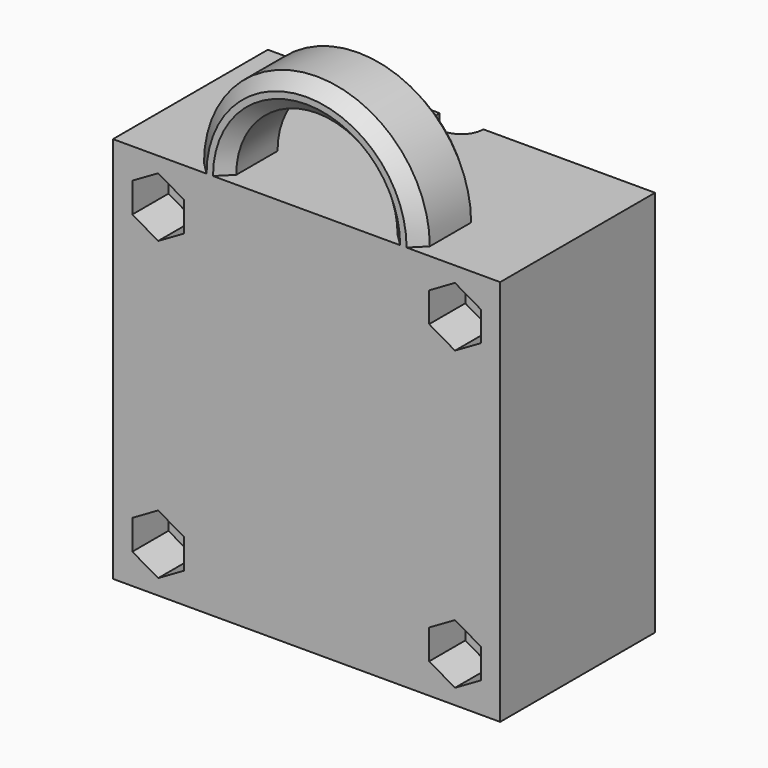
from build123d import *

# Parameters (mm, degrees)
F0_W      = 60
F0_H      = 30
F1_DEPTH  = 60
F2_R      = 3.4
F3_DEPTH  = 60.001
F4_R      = 1.8
F5_DEPTH  = 30.001
F7_DEPTH  = 7
F9_DEPTH  = 7
F11_DEPTH = 7
F13_DEPTH = 7
F14_R     = 17.5
F15_DEPTH = 12
F17_DEPTH = 30.001
F18_SIZE  = 2


with BuildPart() as f1:
    # F0 (on Top) → F1 (new body)
    with BuildSketch(Plane.XY):
        Rectangle(F0_W, F0_H)
    extrude(amount=F1_DEPTH)

    # F2 (on face) → F3 (cut, through all)
    with BuildSketch(Plane.XY.offset(60)):
        with Locations((0, 15)):
            Circle(F2_R)
    extrude(amount=-F3_DEPTH, mode=Mode.SUBTRACT)

    # F4 (on face) → F5 (cut, through all)
    with BuildSketch(Plane.XZ.offset(15)):
        with Locations((-23, 53)):
            Circle(F4_R)
        with Locations((23, 53)):
            Circle(F4_R)
        with Locations((23, 7)):
            Circle(F4_R)
        with Locations((-23, 7)):
            Circle(F4_R)
    extrude(amount=-F5_DEPTH, mode=Mode.SUBTRACT)

    # F6 (on face) → F7 (cut)
    with BuildSketch(Plane.XZ.offset(15)):
        Polygon((-23, 48.3811978465), (-19, 50.6905989232), (-19, 55.3094010768), (-23, 57.6188021535), (-27, 55.3094010768), (-27, 50.6905989232), align=None)
    extrude(amount=-F7_DEPTH, mode=Mode.SUBTRACT)

    # F8 (on face) → F9 (cut)
    with BuildSketch(Plane.XZ.offset(15)):
        Polygon((19, 50.6905989232), (23, 48.3811978465), (27, 50.6905989232), (27, 55.3094010768), (23, 57.6188021535), (19, 55.3094010768), align=None)
    extrude(amount=-F9_DEPTH, mode=Mode.SUBTRACT)

    # F10 (on face) → F11 (cut)
    with BuildSketch(Plane.XZ.offset(15)):
        Polygon((-23, 2.3811978465), (-19, 4.6905989232), (-19, 9.3094010768), (-23, 11.6188021535), (-27, 9.3094010768), (-27, 4.6905989232), align=None)
    extrude(amount=-F11_DEPTH, mode=Mode.SUBTRACT)

    # F12 (on face) → F13 (cut)
    with BuildSketch(Plane.XZ.offset(15)):
        Polygon((23, 2.3811978465), (27, 4.6905989232), (27, 9.3094010768), (23, 11.6188021535), (19, 9.3094010768), (19, 4.6905989232), align=None)
    extrude(amount=-F13_DEPTH, mode=Mode.SUBTRACT)

    # F14 (on face) → F15 (join)
    with BuildSketch(Plane.XZ.offset(15)):
        with Locations((0, 60)):
            Circle(F14_R)
    extrude(amount=-F15_DEPTH)

    # F16 (on face) → F17 (cut, through all)
    with BuildSketch(Plane.XZ.offset(15)):
        with BuildLine():
            Line((-12.5, 60), (12.5, 60))
            ThreePointArc((12.5, 60), (0, 72.5), (-12.5, 60))
        make_face()
    extrude(amount=-F17_DEPTH, mode=Mode.SUBTRACT)

    # F18
    f18_edges = [f1.edges().sort_by_distance(p)[0] for p in [
        (0, -15, 77.5),
        (0, -3, 77.5),
        (0, -15, 72.5),
        (0, -3, 72.5),
    ]]
    chamfer(f18_edges, length=F18_SIZE)


solid = f1.part
